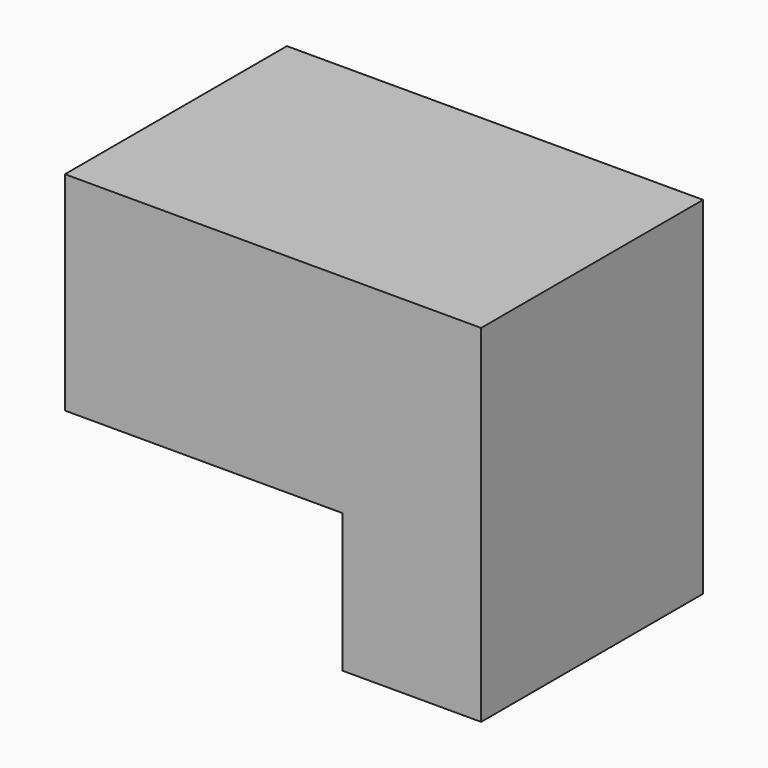
from build123d import *

# Parameters (mm, degrees)
F0_W     = 38.1
F0_H     = 31.75
F1_DEPTH = 25.4
F2_W     = 25.3788903356
F2_H     = 12.7
F3_DEPTH = 25.4
F4_DEPTH = 25.4
F5_DEPTH = 25.4
F6_DEPTH = 25.4


with BuildPart() as f1:
    # F0 (on Front) → F1 (new body)
    with BuildSketch(Plane.XZ):
        with Locations((19.05, 15.875)):
            Rectangle(F0_W, F0_H)
    extrude(amount=F1_DEPTH)

    # F2 (on Right) → F3 (cut)
    with BuildSketch(Plane.YZ):
        with Locations((-12.6894451678, 6.35)):
            Rectangle(F2_W, F2_H)
    extrude(amount=F3_DEPTH, mode=Mode.SUBTRACT)

    # F4 (add): a face of the model
    f4_faces = [f1.faces().sort_by_distance(p)[0] for p in [
        (12.7, -25.3788903356, 6.35),
    ]]
    extrude(f4_faces, amount=F4_DEPTH)

    # F5 (cut): a face of the model
    f5_faces = [f1.faces().sort_by_distance(p)[0] for p in [
        (12.7, 0.0211096644, 6.35),
    ]]
    extrude(f5_faces, amount=-F5_DEPTH, mode=Mode.SUBTRACT)

    # F6 (cut): a face of the model
    f6_faces = [f1.faces().sort_by_distance(p)[0] for p in [
        (12.7, -25.3788903356, 6.35),
    ]]
    extrude(f6_faces, amount=-F6_DEPTH, mode=Mode.SUBTRACT)


solid = f1.part
